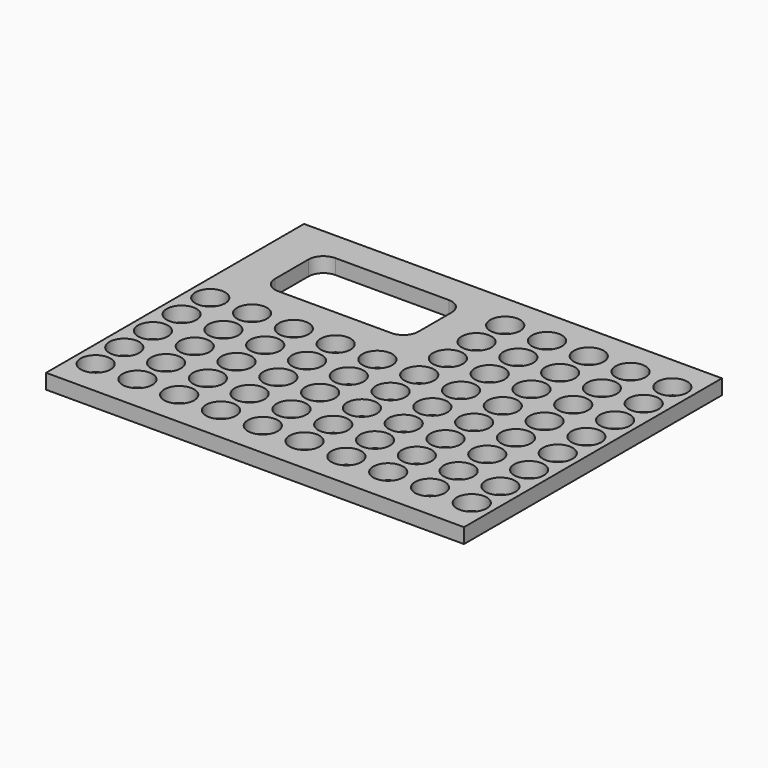
from build123d import *

# Parameters (mm, degrees)
F0_W     = 177.8
F0_H     = 137.16
F0_R     = 6.35
F1_DEPTH = 6.35


with BuildPart() as f1:
    # F0 (on Top) → F1 (new body)
    with BuildSketch(Plane.XY):
        with Locations((80.01, 53.34)):
            Rectangle(F0_W, F0_H)
        Circle(F0_R, mode=Mode.SUBTRACT)
        with Locations((17.78, 0)):
            Circle(F0_R, mode=Mode.SUBTRACT)
        with Locations((0, 15.24)):
            Circle(F0_R, mode=Mode.SUBTRACT)
        with Locations((17.78, 15.24)):
            Circle(F0_R, mode=Mode.SUBTRACT)
        with Locations((35.56, 0)):
            Circle(F0_R, mode=Mode.SUBTRACT)
        with Locations((53.34, 0)):
            Circle(F0_R, mode=Mode.SUBTRACT)
        with Locations((71.12, 0)):
            Circle(F0_R, mode=Mode.SUBTRACT)
        with Locations((35.56, 15.24)):
            Circle(F0_R, mode=Mode.SUBTRACT)
        with Locations((53.34, 15.24)):
            Circle(F0_R, mode=Mode.SUBTRACT)
        with Locations((71.12, 15.24)):
            Circle(F0_R, mode=Mode.SUBTRACT)
        with Locations((0, 30.48)):
            Circle(F0_R, mode=Mode.SUBTRACT)
        with Locations((17.78, 30.48)):
            Circle(F0_R, mode=Mode.SUBTRACT)
        with Locations((0, 45.72)):
            Circle(F0_R, mode=Mode.SUBTRACT)
        with Locations((17.78, 45.72)):
            Circle(F0_R, mode=Mode.SUBTRACT)
        with Locations((35.56, 30.48)):
            Circle(F0_R, mode=Mode.SUBTRACT)
        with Locations((53.34, 30.48)):
            Circle(F0_R, mode=Mode.SUBTRACT)
        with Locations((71.12, 30.48)):
            Circle(F0_R, mode=Mode.SUBTRACT)
        with Locations((35.56, 45.72)):
            Circle(F0_R, mode=Mode.SUBTRACT)
        with Locations((53.34, 45.72)):
            Circle(F0_R, mode=Mode.SUBTRACT)
        with Locations((71.12, 45.72)):
            Circle(F0_R, mode=Mode.SUBTRACT)
        with Locations((88.9, 0)):
            Circle(F0_R, mode=Mode.SUBTRACT)
        with Locations((106.68, 0)):
            Circle(F0_R, mode=Mode.SUBTRACT)
        with Locations((124.46, 0)):
            Circle(F0_R, mode=Mode.SUBTRACT)
        with Locations((88.9, 15.24)):
            Circle(F0_R, mode=Mode.SUBTRACT)
        with Locations((106.68, 15.24)):
            Circle(F0_R, mode=Mode.SUBTRACT)
        with Locations((124.46, 15.24)):
            Circle(F0_R, mode=Mode.SUBTRACT)
        with Locations((142.24, 0)):
            Circle(F0_R, mode=Mode.SUBTRACT)
        with Locations((160.02, 0)):
            Circle(F0_R, mode=Mode.SUBTRACT)
        with Locations((142.24, 15.24)):
            Circle(F0_R, mode=Mode.SUBTRACT)
        with Locations((160.02, 15.24)):
            Circle(F0_R, mode=Mode.SUBTRACT)
        with Locations((88.9, 30.48)):
            Circle(F0_R, mode=Mode.SUBTRACT)
        with Locations((106.68, 30.48)):
            Circle(F0_R, mode=Mode.SUBTRACT)
        with Locations((124.46, 30.48)):
            Circle(F0_R, mode=Mode.SUBTRACT)
        with Locations((88.9, 45.72)):
            Circle(F0_R, mode=Mode.SUBTRACT)
        with Locations((106.68, 45.72)):
            Circle(F0_R, mode=Mode.SUBTRACT)
        with Locations((124.46, 45.72)):
            Circle(F0_R, mode=Mode.SUBTRACT)
        with Locations((142.24, 30.48)):
            Circle(F0_R, mode=Mode.SUBTRACT)
        with Locations((160.02, 30.48)):
            Circle(F0_R, mode=Mode.SUBTRACT)
        with Locations((142.24, 45.72)):
            Circle(F0_R, mode=Mode.SUBTRACT)
        with Locations((160.02, 45.72)):
            Circle(F0_R, mode=Mode.SUBTRACT)
        with Locations((0, 60.96)):
            Circle(F0_R, mode=Mode.SUBTRACT)
        with Locations((17.78, 60.96)):
            Circle(F0_R, mode=Mode.SUBTRACT)
        with Locations((35.56, 60.96)):
            Circle(F0_R, mode=Mode.SUBTRACT)
        with Locations((53.34, 60.96)):
            Circle(F0_R, mode=Mode.SUBTRACT)
        with Locations((71.12, 60.96)):
            Circle(F0_R, mode=Mode.SUBTRACT)
        with BuildLine():
            ThreePointArc((8.255, 102.87), (10.114872, 107.360128), (14.605, 109.22))
            Line((14.605, 109.22), (62.865, 109.22))
            ThreePointArc((62.865, 109.22), (67.355128, 107.360128), (69.215, 102.87))
            Line((69.215, 102.87), (69.215, 85.09))
            ThreePointArc((69.215, 85.09), (67.355128, 80.599872), (62.865, 78.74))
            Line((62.865, 78.74), (14.605, 78.74))
            ThreePointArc((14.605, 78.74), (10.114872, 80.599872), (8.255, 85.09))
            Line((8.255, 85.09), (8.255, 102.87))
        make_face(mode=Mode.SUBTRACT)
        with Locations((88.9, 60.96)):
            Circle(F0_R, mode=Mode.SUBTRACT)
        with Locations((106.68, 60.96)):
            Circle(F0_R, mode=Mode.SUBTRACT)
        with Locations((124.46, 60.96)):
            Circle(F0_R, mode=Mode.SUBTRACT)
        with Locations((88.9, 76.2)):
            Circle(F0_R, mode=Mode.SUBTRACT)
        with Locations((106.68, 76.2)):
            Circle(F0_R, mode=Mode.SUBTRACT)
        with Locations((124.46, 76.2)):
            Circle(F0_R, mode=Mode.SUBTRACT)
        with Locations((142.24, 60.96)):
            Circle(F0_R, mode=Mode.SUBTRACT)
        with Locations((160.02, 60.96)):
            Circle(F0_R, mode=Mode.SUBTRACT)
        with Locations((142.24, 76.2)):
            Circle(F0_R, mode=Mode.SUBTRACT)
        with Locations((160.02, 76.2)):
            Circle(F0_R, mode=Mode.SUBTRACT)
        with Locations((88.9, 91.44)):
            Circle(F0_R, mode=Mode.SUBTRACT)
        with Locations((106.68, 91.44)):
            Circle(F0_R, mode=Mode.SUBTRACT)
        with Locations((124.46, 91.44)):
            Circle(F0_R, mode=Mode.SUBTRACT)
        with Locations((88.9, 106.68)):
            Circle(F0_R, mode=Mode.SUBTRACT)
        with Locations((106.68, 106.68)):
            Circle(F0_R, mode=Mode.SUBTRACT)
        with Locations((124.46, 106.68)):
            Circle(F0_R, mode=Mode.SUBTRACT)
        with Locations((142.24, 91.44)):
            Circle(F0_R, mode=Mode.SUBTRACT)
        with Locations((160.02, 91.44)):
            Circle(F0_R, mode=Mode.SUBTRACT)
        with Locations((142.24, 106.68)):
            Circle(F0_R, mode=Mode.SUBTRACT)
        with Locations((160.02, 106.68)):
            Circle(F0_R, mode=Mode.SUBTRACT)
    extrude(amount=F1_DEPTH)


solid = f1.part
